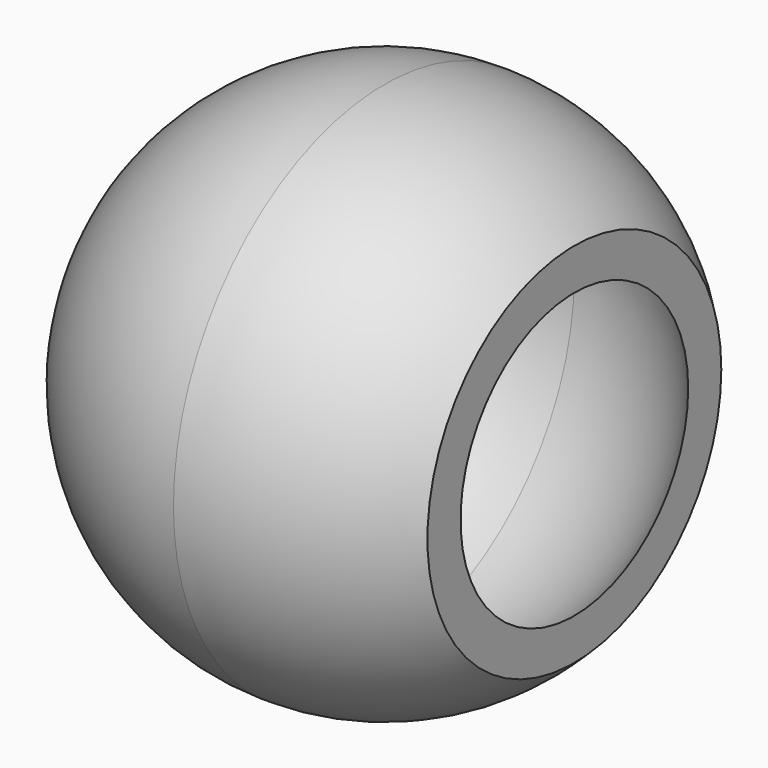
from build123d import *


with BuildPart() as f1:
    # F0 (on Top) → F1 (revolve)
    with BuildSketch(Plane.XY):
        with BuildLine():
            ThreePointArc((0, 10), (4.472135955, 8.94427191), (8, 6))
            Line((8, 6), (8, 7.7459666924))
            ThreePointArc((8, 7.7459666924), (4.3442240612, 10.2531808384), (0, 11.1355287257))
            Line((0, 11.1355287257), (0, 10))
        make_face()
        with BuildLine():
            ThreePointArc((-10, 0), (-7.0710678119, 7.0710678119), (0, 10))
            Line((0, 10), (0, 11.1355287257))
            ThreePointArc((0, 11.1355287257), (-7.874007874, 7.874007874), (-11.1355287257, 0))
            Line((-11.1355287257, 0), (-10, 0))
        make_face()
    revolve(axis=Axis((-5.5677643628, 0, 0), (-1, 0, 0)))


solid = f1.part
